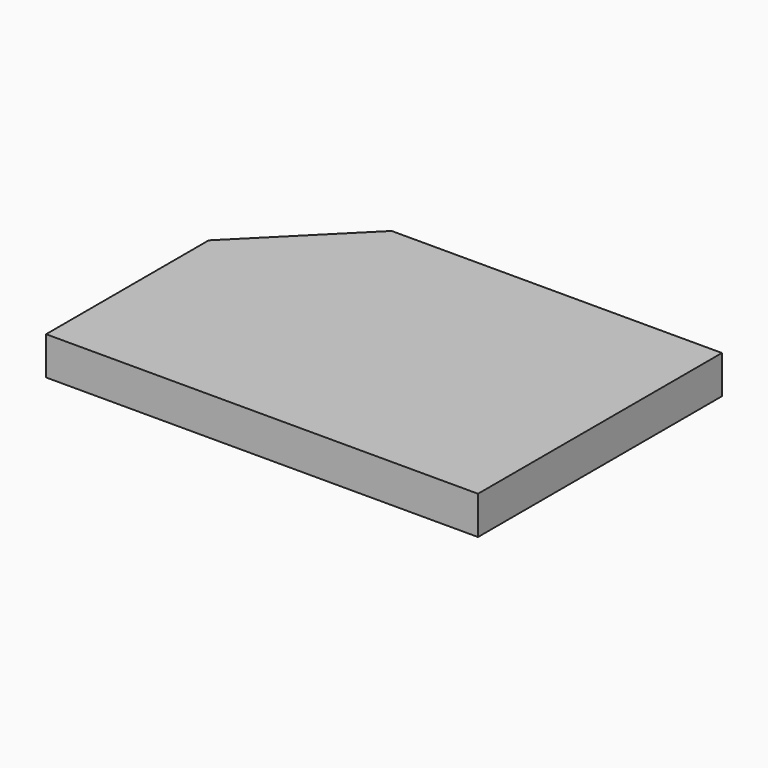
from build123d import *

# Parameters (mm, degrees)
PAD_DEPTH    = 15
SKETCH_W     = 10
SKETCH_H     = 25
POCKET_DEPTH = 5


with BuildPart() as part:
    # CopySketch → Pad (new body)
    with BuildSketch(Plane.XY):
        Polygon((-170, 0), (-170, 80), (-130, 120), (0, 120), (0, 0), align=None)
    extrude(amount=PAD_DEPTH)

    # Sketch (on Face6 of Pad) → Pocket (cut)
    with BuildSketch(Plane(origin=(0, 0, 0), x_dir=(1, 0, 0), z_dir=(0, 0, -1))):
        with Locations((-65, -112.5)):
            Rectangle(SKETCH_W, SKETCH_H)
    extrude(amount=-POCKET_DEPTH, mode=Mode.SUBTRACT)


solid = part.part
